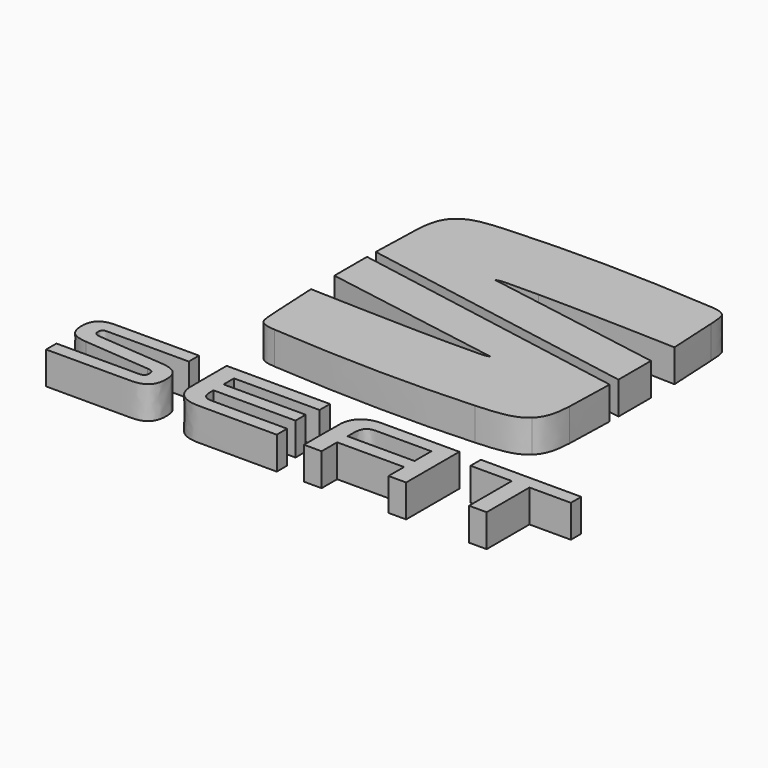
from build123d import *

# Parameters (mm, degrees)
EXTRUDE001_DEPTH = 5
EXTRUDE002_DEPTH = 5
EXTRUDE003_DEPTH = 5
EXTRUDE005_DEPTH = 5
EXTRUDE006_DEPTH = 10
EXTRUDE004_DEPTH = 5
EXTRUDE_DEPTH    = 5


with BuildPart() as extrude001:
    # path3021 → Extrude001 (new body)
    with BuildSketch(Plane(origin=(37.265999, -27.654297, 0), x_dir=(0, -1, 0), z_dir=(0, 0, -1))):
        with BuildLine():
            add(Edge.make_bspline(
                [(-11.305205, 21.73508), (-3.579019, -21.73508)],
                knots=[0, 0, 250.307318, 250.307318], degree=1))
            add(Edge.make_bspline(
                [(-3.579019, -21.73508), (-3.579019, -21.73508), (1.290902, -21.613901), (3.865474, -21.526235)],
                knots=[0, 0, 0, 0, 1, 1, 1, 1], degree=3))
            add(Edge.make_bspline(
                [(3.865474, -21.526235), (6.441987, -21.439099), (8.01026, -20.896703), (8.954823, -19.832902)],
                knots=[0, 0, 0, 0, 1, 1, 1, 1], degree=3))
            add(Edge.make_bspline(
                [(8.954823, -19.832902), (10.257102, -18.365699), (10.568076, -16.654022), (10.790502, -12.568326)],
                knots=[0, 0, 0, 0, 1, 1, 1, 1], degree=3))
            add(Edge.make_bspline(
                [(10.790502, -12.568326), (11.305205, -3.099241), (11.23412, 6.538824), (10.388159, 18.618288)],
                knots=[0, 0, 0, 0, 1, 1, 1, 1], degree=3))
            add(Edge.make_bspline(
                [(10.388159, 18.618288), (10.300317, 19.875235), (10.063603, 20.350251), (9.894623, 20.598253)],
                knots=[0, 0, 0, 0, 1, 1, 1, 1], degree=3))
            add(Edge.make_bspline(
                [(9.894623, 20.598253), (9.528087, 21.132535), (9.116572, 21.200269), (6.973976, 21.342262)],
                knots=[0, 0, 0, 0, 1, 1, 1, 1], degree=3))
            add(Edge.make_bspline(
                [(6.973976, 21.342262), (5.244659, 21.457091), (-0.551127, 21.73508), (-0.551127, 21.73508)],
                knots=[0, 0, 0, 0, 1, 1, 1, 1], degree=3))
            add(Edge.make_bspline(
                [(-0.551127, 21.73508), (-0.551127, 21.73508), (-0.029898, 7.477037), (-0.029898, 0.46064)],
                knots=[0, 0, 0, 0, 1, 1, 1, 1], degree=3))
            add(Edge.make_bspline(
                [(-0.029898, 0.46064), (-0.029898, -1.510859), (-0.041716, -3.101887), (-0.067292, -4.401344)],
                knots=[0, 0, 0, 0, 1, 1, 1, 1], degree=3))
            add(Edge.make_bspline(
                [(-0.067292, -4.401344), (-0.083697, -5.269001), (-0.164659, -5.674695), (-0.324644, -6.007717)],
                knots=[0, 0, 0, 0, 1, 1, 1, 1], degree=3))
            add(Edge.make_bspline(
                [(-0.324644, -6.007717), (-5.048338, 21.73508)],
                knots=[0, 0, 159.545592, 159.545592], degree=1))
            add(Edge.make_bspline(
                [(-5.048338, 21.73508), (-11.305205, 21.73508)],
                knots=[0, 0, 35.472, 35.472], degree=1))
        make_face()
    extrude(amount=EXTRUDE001_DEPTH)


with BuildPart() as extrude001_1:
    # Extrude001 placement: moved
    add(extrude001.part.moved(Location((0, 0, 5))))


with BuildPart() as extrude002:
    # path3013 → Extrude002 (new body)
    with BuildSketch(Plane(origin=(8.297158, -54.095521, 0), x_dir=(0, 1, 0), z_dir=(0, 0, 1))):
        with BuildLine():
            add(Edge.make_bspline(
                [(1.557955, 4.824413), (1.623924, 5.656792), (1.913378, 5.802665), (2.415558, 5.802665)],
                knots=[0, 0, 0, 0, 1, 1, 1, 1], degree=3))
            add(Edge.make_bspline(
                [(2.415558, 5.802665), (2.877344, 5.802665), (3.142633, 5.55184), (3.142633, 4.918075)],
                knots=[0, 0, 0, 0, 1, 1, 1, 1], degree=3))
            add(Edge.make_bspline(
                [(3.142633, 4.918075), (3.142633, -7.531629)],
                knots=[0, 0, 70.581, 70.581], degree=1))
            add(Edge.make_bspline(
                [(3.142633, -7.531629), (5.109016, -7.531629)],
                knots=[0, 0, 11.148, 11.148], degree=1))
            add(Edge.make_bspline(
                [(5.109016, -7.531629), (5.109016, 5.233811)],
                knots=[0, 0, 72.371, 72.371], degree=1))
            add(Edge.make_bspline(
                [(5.109016, 5.233811), (5.109016, 7.05679), (4.408047, 8.297157), (2.375694, 8.297157)],
                knots=[0, 0, 0, 0, 1, 1, 1, 1], degree=3))
            add(Edge.make_bspline(
                [(2.375694, 8.297157), (0.329583, 8.297157), (-0.357452, 7.360356), (-0.528549, 5.287786)],
                knots=[0, 0, 0, 0, 1, 1, 1, 1], degree=3))
            add(Edge.make_bspline(
                [(-0.528549, 5.287786), (-1.373276, -4.812065)],
                knots=[0, 0, 57.458921, 57.458921], degree=1))
            add(Edge.make_bspline(
                [(-1.373276, -4.812065), (-1.439422, -5.591175), (-1.702947, -5.802136), (-2.256808, -5.802136)],
                knots=[0, 0, 0, 0, 1, 1, 1, 1], degree=3))
            add(Edge.make_bspline(
                [(-2.256808, -5.802136), (-2.785974, -5.802136), (-3.115292, -5.564011), (-3.115292, -4.877506)],
                knots=[0, 0, 0, 0, 1, 1, 1, 1], degree=3))
            add(Edge.make_bspline(
                [(-3.115292, -4.877506), (-3.115292, 7.795154)],
                knots=[0, 0, 71.845, 71.845], degree=1))
            add(Edge.make_bspline(
                [(-3.115292, 7.795154), (-5.109016, 7.795154)],
                knots=[0, 0, 11.303, 11.303], degree=1))
            add(Edge.make_bspline(
                [(-5.109016, 7.795154), (-5.109016, -5.102578)],
                knots=[0, 0, 73.121, 73.121], degree=1))
            add(Edge.make_bspline(
                [(-5.109016, -5.102578), (-5.109016, -7.320668), (-4.223367, -8.297157), (-2.125751, -8.297157)],
                knots=[0, 0, 0, 0, 1, 1, 1, 1], degree=3))
            add(Edge.make_bspline(
                [(-2.125751, -8.297157), (-0.212108, -8.297157), (0.541073, -7.411508), (0.725928, -5.248099)],
                knots=[0, 0, 0, 0, 1, 1, 1, 1], degree=3))
            add(Edge.make_bspline(
                [(0.725928, -5.248099), (1.557955, 4.824413)],
                knots=[0, 0, 57.29849, 57.29849], degree=1))
        make_face()
    extrude(amount=EXTRUDE002_DEPTH)


with BuildPart() as extrude003:
    # path3013001 → Extrude003 (new body)
    with BuildSketch(Plane(origin=(28.012938, -54.095521, 0), x_dir=(0, -1, 0), z_dir=(0, 0, -1))):
        with BuildLine():
            add(Edge.make_bspline(
                [(1.173956, 5.214144), (2.601295, 5.214144), (3.115292, 4.92416), (3.115292, 3.339659)],
                knots=[0, 0, 0, 0, 1, 1, 1, 1], degree=3))
            add(Edge.make_bspline(
                [(3.115292, 3.339659), (3.115292, -7.935648)],
                knots=[0, 0, 63.923, 63.923], degree=1))
            add(Edge.make_bspline(
                [(3.115292, -7.935648), (5.109016, -7.935648)],
                knots=[0, 0, 11.303, 11.303], degree=1))
            add(Edge.make_bspline(
                [(5.109016, -7.935648), (5.109016, 3.97413)],
                knots=[0, 0, 67.52, 67.52], degree=1))
            add(Edge.make_bspline(
                [(5.109016, 3.97413), (5.109016, 6.678348), (3.893344, 7.935648), (1.597466, 7.935648)],
                knots=[0, 0, 0, 0, 1, 1, 1, 1], degree=3))
            add(Edge.make_bspline(
                [(1.597466, 7.935648), (-5.109016, 7.935648)],
                knots=[0, 0, 38.021, 38.021], degree=1))
            add(Edge.make_bspline(
                [(-5.109016, 7.935648), (-5.109016, -7.935648)],
                knots=[0, 0, 89.979, 89.979], degree=1))
            add(Edge.make_bspline(
                [(-5.109016, -7.935648), (-3.114058, -7.935648)],
                knots=[0, 0, 11.31, 11.31], degree=1))
            add(Edge.make_bspline(
                [(-3.114058, -7.935648), (-3.114058, 5.214144)],
                knots=[0, 0, 74.55, 74.55], degree=1))
            add(Edge.make_bspline(
                [(-3.114058, 5.214144), (-1.108516, 5.214144)],
                knots=[0, 0, 11.37, 11.37], degree=1))
            add(Edge.make_bspline(
                [(-1.108516, 5.214144), (-1.108516, -7.406658)],
                knots=[0, 0, 71.551, 71.551], degree=1))
            add(Edge.make_bspline(
                [(-1.108516, -7.406658), (0.844991, -7.406658)],
                knots=[0, 0, 11.075, 11.075], degree=1))
            add(Edge.make_bspline(
                [(0.844991, -7.406658), (0.844991, 5.214144)],
                knots=[0, 0, 71.551, 71.551], degree=1))
            add(Edge.make_bspline(
                [(0.844991, 5.214144), (1.173956, 5.214144)],
                knots=[0, 0, 1.865, 1.865], degree=1))
        make_face()
    extrude(amount=EXTRUDE003_DEPTH)


with BuildPart() as extrude003_1:
    # Extrude003 placement: moved
    add(extrude003.part.moved(Location((0, 0, 5))))


with BuildPart() as extrude005:
    # path3013002 → Extrude005 (new body)
    with BuildSketch(Plane(origin=(66.854212, -54.095521, 0), x_dir=(0, 1, 0), z_dir=(0, 0, 1))):
        with BuildLine():
            add(Edge.make_bspline(
                [(5.109016, 7.709782), (3.114058, 7.709782)],
                knots=[0, 0, 11.31, 11.31], degree=1))
            add(Edge.make_bspline(
                [(3.114058, 7.709782), (3.114058, 1.359606)],
                knots=[0, 0, 36.001, 36.001], degree=1))
            add(Edge.make_bspline(
                [(3.114058, 1.359606), (-5.109016, 1.359606)],
                knots=[0, 0, 46.619, 46.619], degree=1))
            add(Edge.make_bspline(
                [(-5.109016, 1.359606), (-5.109016, -1.346376)],
                knots=[0, 0, 15.341, 15.341], degree=1))
            add(Edge.make_bspline(
                [(-5.109016, -1.346376), (3.114058, -1.346376)],
                knots=[0, 0, 46.619, 46.619], degree=1))
            add(Edge.make_bspline(
                [(3.114058, -1.346376), (3.114058, -7.709782)],
                knots=[0, 0, 36.076, 36.076], degree=1))
            add(Edge.make_bspline(
                [(3.114058, -7.709782), (5.109016, -7.709782)],
                knots=[0, 0, 11.31, 11.31], degree=1))
            add(Edge.make_bspline(
                [(5.109016, -7.709782), (5.109016, 7.709782)],
                knots=[0, 0, 87.418, 87.418], degree=1))
        make_face()
    extrude(amount=EXTRUDE005_DEPTH)


with BuildPart() as extrude006:
    # path3013004 → Extrude006 (new body)
    with BuildSketch(Plane(origin=(47.981218, -52.597891, 0), x_dir=(0, -1, 0), z_dir=(0, 0, -1))):
        with BuildLine():
            add(Edge.make_bspline(
                [(-1.616428, -5.142353), (1.616428, -5.142353)],
                knots=[0, 0, 18.328, 18.328], degree=1))
            add(Edge.make_bspline(
                [(1.616428, -5.142353), (1.616428, 5.142353)],
                knots=[0, 0, 58.307, 58.307], degree=1))
            add(Edge.make_bspline(
                [(1.616428, 5.142353), (0.718608, 5.142353)],
                knots=[0, 0, 5.09, 5.09], degree=1))
            add(Edge.make_bspline(
                [(0.718608, 5.142353), (-0.680508, 5.142353), (-1.616428, 4.918692), (-1.616428, 3.267516)],
                knots=[0, 0, 0, 0, 1, 1, 1, 1], degree=3))
            add(Edge.make_bspline(
                [(-1.616428, 3.267516), (-1.616428, -5.142353)],
                knots=[0, 0, 47.678, 47.678], degree=1))
        make_face()
    extrude(amount=EXTRUDE006_DEPTH)


with BuildPart() as extrude006_1:
    # Extrude006 placement: moved
    add(extrude006.part.moved(Location((0, 0, 7))))


with BuildPart() as cut:
    # path3013003 → Extrude004 (new body)
    with BuildSketch(Plane(origin=(47.981483, -54.095521, 0), x_dir=(0, 1, 0), z_dir=(0, 0, 1))):
        with BuildLine():
            add(Edge.make_bspline(
                [(5.109016, 3.901546), (5.109016, 6.607528), (3.670035, 7.8486), (1.37257, 7.8486)],
                knots=[0, 0, 0, 0, 1, 1, 1, 1], degree=3))
            add(Edge.make_bspline(
                [(1.37257, 7.8486), (-5.109016, 7.8486)],
                knots=[0, 0, 36.746, 36.746], degree=1))
            add(Edge.make_bspline(
                [(-5.109016, 7.8486), (-5.109016, 5.142618)],
                knots=[0, 0, 15.341, 15.341], degree=1))
            add(Edge.make_bspline(
                [(-5.109016, 5.142618), (-2.125751, 5.142618)],
                knots=[0, 0, 16.913, 16.913], degree=1))
            add(Edge.make_bspline(
                [(-2.125751, 5.142618), (-2.125751, -5.142089)],
                knots=[0, 0, 58.307, 58.307], degree=1))
            add(Edge.make_bspline(
                [(-2.125751, -5.142089), (-5.109016, -5.142089)],
                knots=[0, 0, 16.913, 16.913], degree=1))
            add(Edge.make_bspline(
                [(-5.109016, -5.142089), (-5.109016, -7.8486)],
                knots=[0, 0, 15.344, 15.344], degree=1))
            add(Edge.make_bspline(
                [(-5.109016, -7.8486), (5.109016, -7.8486)],
                knots=[0, 0, 57.929, 57.929], degree=1))
            add(Edge.make_bspline(
                [(5.109016, -7.8486), (5.109016, 3.901546)],
                knots=[0, 0, 66.615, 66.615], degree=1))
        make_face()
    extrude(amount=EXTRUDE004_DEPTH)

    # Cut: cut Extrude006
    add(extrude006_1.part, mode=Mode.SUBTRACT)


with BuildPart() as seat:
    # path3017 → Extrude (new body)
    with BuildSketch(Plane(origin=(37.291963, -11.115422, 0), x_dir=(0, -1, 0), z_dir=(0, 0, -1))):
        with BuildLine():
            add(Edge.make_bspline(
                [(11.305469, -21.735785), (3.579107, 21.735785)],
                knots=[0, 0, 250.315369, 250.315369], degree=1))
            add(Edge.make_bspline(
                [(3.579107, 21.735785), (3.579107, 21.735785), (-1.291872, 21.614077), (-3.865386, 21.526412)],
                knots=[0, 0, 0, 0, 1, 1, 1, 1], degree=3))
            add(Edge.make_bspline(
                [(-3.865386, 21.526412), (-6.442251, 21.438747), (-8.011054, 20.897233), (-8.954911, 19.833255)],
                knots=[0, 0, 0, 0, 1, 1, 1, 1], degree=3))
            add(Edge.make_bspline(
                [(-8.954911, 19.833255), (-10.25719, 18.365523), (-10.56834, 16.654022), (-10.790767, 12.567973)],
                knots=[0, 0, 0, 0, 1, 1, 1, 1], degree=3))
            add(Edge.make_bspline(
                [(-10.790767, 12.567973), (-11.305469, 3.099065), (-11.234208, -6.53953), (-10.389306, -18.618641)],
                knots=[0, 0, 0, 0, 1, 1, 1, 1], degree=3))
            add(Edge.make_bspline(
                [(-10.389306, -18.618641), (-10.300758, -19.874706), (-10.06475, -20.350427), (-9.894535, -20.598253)],
                knots=[0, 0, 0, 0, 1, 1, 1, 1], degree=3))
            add(Edge.make_bspline(
                [(-9.894535, -20.598253), (-9.528351, -21.132359), (-9.117894, -21.200798), (-6.973888, -21.342615)],
                knots=[0, 0, 0, 0, 1, 1, 1, 1], degree=3))
            add(Edge.make_bspline(
                [(-6.973888, -21.342615), (-5.244924, -21.45762), (0.551392, -21.735785), (0.551392, -21.735785)],
                knots=[0, 0, 0, 0, 1, 1, 1, 1], degree=3))
            add(Edge.make_bspline(
                [(0.551392, -21.735785), (0.551392, -21.735785), (0.029986, -7.47739), (0.029986, -0.459934)],
                knots=[0, 0, 0, 0, 1, 1, 1, 1], degree=3))
            add(Edge.make_bspline(
                [(0.029986, -0.459934), (0.029986, 1.511388), (0.041981, 3.102063), (0.067557, 4.401873)],
                knots=[0, 0, 0, 0, 1, 1, 1, 1], degree=3))
            add(Edge.make_bspline(
                [(0.067557, 4.401873), (0.083961, 5.268824), (0.164924, 5.67399), (0.324379, 6.008247)],
                knots=[0, 0, 0, 0, 1, 1, 1, 1], degree=3))
            add(Edge.make_bspline(
                [(0.324379, 6.008247), (5.048426, -21.735785)],
                knots=[0, 0, 159.552828, 159.552828], degree=1))
            add(Edge.make_bspline(
                [(5.048426, -21.735785), (11.305469, -21.735785)],
                knots=[0, 0, 35.473, 35.473], degree=1))
        make_face()
    extrude(amount=EXTRUDE_DEPTH)


with BuildPart() as seat_1:
    # Extrude placement: moved
    add(seat.part.moved(Location((0, 0, 5))))

    # Fusion: union Extrude001, Extrude002, Extrude003, Extrude005, Cut
    add(extrude001_1.part)
    add(extrude002.part)
    add(extrude003_1.part)
    add(extrude005.part)
    add(cut.part)


solid = seat_1.part
